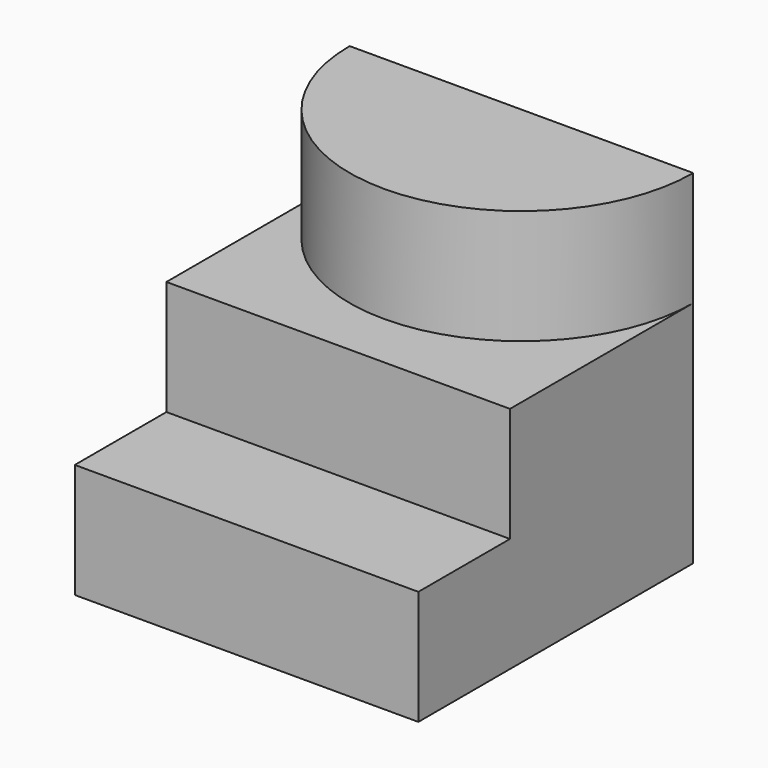
from build123d import *

# Parameters (mm, degrees)
F1_DEPTH = 60
F2_DEPTH = 40
F0_W     = 60
F0_H     = 20
F3_DEPTH = 20


with BuildPart() as f1:
    # F0 (on Top) → F1 (new body)
    with BuildSketch(Plane.XY):
        with BuildLine():
            Line((60, 0), (0, 0))
            ThreePointArc((0, 0), (30, -30), (60, 0))
        make_face()
    extrude(amount=F1_DEPTH)

    # F0 (on Top) → F2 (join)
    with BuildSketch(Plane.XY):
        with BuildLine():
            ThreePointArc((60, 0), (30, -30), (0, 0))
            Line((0, 0), (0, -40))
            Line((0, -40), (60, -40))
            Line((60, -40), (60, 0))
        make_face()
    extrude(amount=F2_DEPTH)

    # F0 (on Top) → F3 (join)
    with BuildSketch(Plane.XY):
        with Locations((30, -50)):
            Rectangle(F0_W, F0_H)
    extrude(amount=F3_DEPTH)


solid = f1.part
